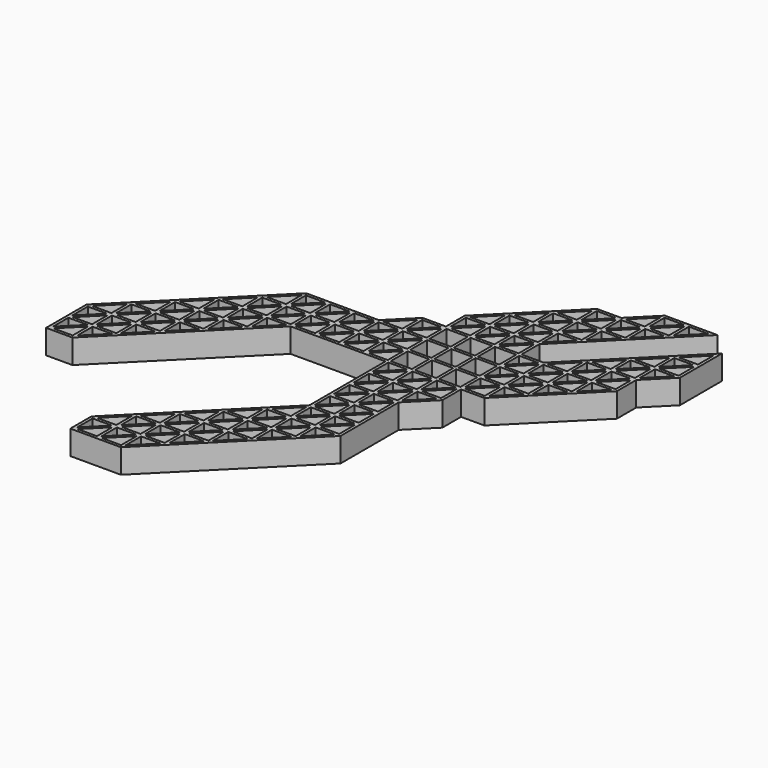
from build123d import *

# Parameters (mm, degrees)
F0_W     = 4.399732
F0_H     = 4.399386
F0_W_2   = 4.400076
F0_W_3   = 4.399731
F0_H_2   = 4.400076
F1_DEPTH = 5


with BuildPart() as f1:
    # F0 (on Top) → F1 (new body)
    with BuildSketch(Plane.XY):
        Polygon((-20.300139, -39.875775), (-20.300139, -45.300077), (-9.875624, -45.300077), (15.3001, -20.124353), (15.3001, -5.124407), (20.299967, -0.12454), (20.299967, 4.699971), (25.124479, 4.699971), (40.300124, 19.875617), (40.300124, 24.875484), (45.299991, 29.875696), (45.299991, 40.724301), (24.875743, 20.300053), (20.299967, 20.300053), (20.299967, 24.875484), (40.724215, 45.300077), (29.87561, 45.300077), (24.875743, 40.300038), (19.875531, 40.300038), (4.699886, 25.12422), (4.699886, 20.300053), (-0.124282, 20.300053), (-5.124493, 15.300186), (-20.124439, 15.300186), (-45.299991, -9.875539), (-45.299991, -20.300053), (-39.87586, -20.300053), (-14.875492, 4.699971), (4.699886, 4.699971), (4.699886, -14.87575), align=None)
        Polygon((-19.275567, -44.699597), (-15.299927, -40.724302), (-15.299927, -44.699597), align=None, mode=Mode.SUBTRACT)
        Polygon((-19.700003, -44.275162), (-19.700003, -40.30021), (-15.724708, -40.30021), align=None, mode=Mode.SUBTRACT)
        Polygon((-14.275356, -44.699597), (-10.30006, -40.724302), (-10.30006, -44.699597), align=None, mode=Mode.SUBTRACT)
        Polygon((-14.699792, -44.275162), (-14.699792, -40.30021), (-10.72484, -40.30021), align=None, mode=Mode.SUBTRACT)
        Polygon((-15.299927, -35.72409), (-15.299927, -39.69973), (-19.275567, -39.69973), align=None, mode=Mode.SUBTRACT)
        Polygon((-10.30006, -39.69973), (-14.275011, -39.69973), (-10.30006, -35.724435), align=None, mode=Mode.SUBTRACT)
        Polygon((-10.724496, -35.299999), (-14.699792, -39.275639), (-14.699792, -35.299999), align=None, mode=Mode.SUBTRACT)
        Polygon((-5.724284, -40.30021), (-9.699925, -44.275851), (-9.699925, -40.30021), align=None, mode=Mode.SUBTRACT)
        Polygon((-5.300193, -39.700075), (-9.275489, -39.700075), (-5.300193, -35.724435), align=None, mode=Mode.SUBTRACT)
        Polygon((-9.699925, -39.275639), (-9.699925, -35.299999), (-5.724629, -35.299999), align=None, mode=Mode.SUBTRACT)
        Polygon((-0.724073, -35.299999), (-4.700057, -39.275983), (-4.700057, -35.299999), align=None, mode=Mode.SUBTRACT)
        Polygon((-14.2757, -34.699863), (-10.30006, -30.723878), (-10.30006, -34.699863), align=None, mode=Mode.SUBTRACT)
        Polygon((-5.300193, -34.699863), (-9.275489, -34.699863), (-5.300193, -30.724223), align=None, mode=Mode.SUBTRACT)
        Polygon((-5.724629, -30.299787), (-9.699925, -34.275427), (-9.699925, -30.299787), align=None, mode=Mode.SUBTRACT)
        Polygon((-0.299982, -34.699863), (-4.275622, -34.699863), (-0.299982, -30.724223), align=None, mode=Mode.SUBTRACT)
        Polygon((-4.700057, -34.275427), (-4.700057, -30.299787), (-0.724417, -30.299787), align=None, mode=Mode.SUBTRACT)
        Polygon((-9.275833, -29.699652), (-5.300193, -25.724011), (-5.300193, -29.699652), align=None, mode=Mode.SUBTRACT)
        Polygon((-0.299982, -29.699652), (-4.275622, -29.699652), (-0.299982, -25.724356), align=None, mode=Mode.SUBTRACT)
        Polygon((-0.724417, -25.29992), (-4.700057, -29.275216), (-4.700057, -25.29992), align=None, mode=Mode.SUBTRACT)
        Polygon((-4.275966, -24.699784), (-0.299982, -20.724144), (-0.299982, -24.699784), align=None, mode=Mode.SUBTRACT)
        Polygon((-44.700028, -19.275482), (-44.700028, -15.299841), (-40.724387, -15.299841), align=None, mode=Mode.SUBTRACT)
        Polygon((-44.275592, -19.699917), (-40.300296, -15.724622), (-40.300296, -19.699917), align=None, mode=Mode.SUBTRACT)
        Polygon((-35.724348, -15.299841), (-39.699816, -19.275482), (-39.699816, -15.299841), align=None, mode=Mode.SUBTRACT)
        Polygon((-44.700028, -10.299974), (-40.724732, -10.299974), (-44.700028, -14.27527), align=None, mode=Mode.SUBTRACT)
        Polygon((-40.300296, -10.72441), (-40.300296, -14.699706), (-44.275592, -14.699706), align=None, mode=Mode.SUBTRACT)
        Polygon((-39.699816, -14.274926), (-39.699816, -10.299974), (-35.724865, -10.299974), align=None, mode=Mode.SUBTRACT)
        Polygon((-35.300085, -14.699706), (-39.275725, -14.699706), (-35.300085, -10.724066), align=None, mode=Mode.SUBTRACT)
        Polygon((-30.724309, -10.29963), (-34.699949, -14.275615), (-34.699949, -10.29963), align=None, mode=Mode.SUBTRACT)
        Polygon((-40.300296, -5.724199), (-40.300296, -9.699494), (-44.27542, -9.699494), align=None, mode=Mode.SUBTRACT)
        Polygon((-35.724348, -5.300107), (-39.700161, -9.275747), (-39.700161, -5.300107), align=None, mode=Mode.SUBTRACT)
        Polygon((-35.300085, -9.699494), (-39.275553, -9.699494), (-35.300085, -5.724199), align=None, mode=Mode.SUBTRACT)
        Polygon((-39.275897, -4.699972), (-35.300085, -0.723987), (-35.300085, -4.699972), align=None, mode=Mode.SUBTRACT)
        Polygon((-34.699949, -9.275058), (-34.699949, -5.300107), (-30.724998, -5.300107), align=None, mode=Mode.SUBTRACT)
        Polygon((-34.275513, -9.699494), (-30.300218, -5.724199), (-30.300218, -9.699494), align=None, mode=Mode.SUBTRACT)
        Polygon((-25.724097, -5.300107), (-29.700082, -9.275747), (-29.700082, -5.300107), align=None, mode=Mode.SUBTRACT)
        Polygon((-30.724653, -0.299896), (-34.699949, -4.275536), (-34.699949, -0.299896), align=None, mode=Mode.SUBTRACT)
        Polygon((-30.300218, -4.699627), (-34.275169, -4.699627), (-30.300218, -0.724331), align=None, mode=Mode.SUBTRACT)
        Polygon((-29.700082, -4.275536), (-29.700082, -0.299896), (-25.724442, -0.299896), align=None, mode=Mode.SUBTRACT)
        Polygon((-25.300006, -4.699972), (-29.275646, -4.699972), (-25.300006, -0.724331), align=None, mode=Mode.SUBTRACT)
        Polygon((-20.72423, -0.299896), (-24.69987, -4.27588), (-24.69987, -0.299896), align=None, mode=Mode.SUBTRACT)
        Polygon((4.275794, -30.299787), (0.300154, -34.275772), (0.300154, -30.299787), align=None, mode=Mode.SUBTRACT)
        Polygon((4.699886, -29.699652), (0.72459, -29.699652), (4.699886, -25.724356), align=None, mode=Mode.SUBTRACT)
        Polygon((0.300154, -29.275216), (0.300154, -25.29992), (4.27545, -25.29992), align=None, mode=Mode.SUBTRACT)
        Polygon((4.699886, -24.699784), (0.72459, -24.699784), (4.699886, -20.724489), align=None, mode=Mode.SUBTRACT)
        Polygon((9.275661, -25.29992), (5.300021, -29.27556), (5.300021, -25.29992), align=None, mode=Mode.SUBTRACT)
        Polygon((9.699753, -24.699784), (5.724457, -24.699784), (9.699753, -20.724489), align=None, mode=Mode.SUBTRACT)
        Polygon((4.27545, -20.300053), (0.300154, -24.275349), (0.300154, -20.300053), align=None, mode=Mode.SUBTRACT)
        Polygon((0.724245, -19.699917), (4.699886, -15.723933), (4.699886, -19.699917), align=None, mode=Mode.SUBTRACT)
        Polygon((5.300021, -24.275349), (5.300021, -20.300053), (9.275317, -20.300053), align=None, mode=Mode.SUBTRACT)
        Polygon((5.724457, -19.699917), (9.699753, -15.724277), (9.699753, -19.699917), align=None, mode=Mode.SUBTRACT)
        Polygon((5.300021, -19.275482), (5.300021, -15.299841), (9.275317, -15.299841), align=None, mode=Mode.SUBTRACT)
        Polygon((9.699753, -10.72441), (9.699753, -14.699706), (5.724457, -14.699706), align=None, mode=Mode.SUBTRACT)
        Polygon((5.300021, -14.27527), (5.300021, -10.299974), (9.275317, -10.299974), align=None, mode=Mode.SUBTRACT)
        Polygon((14.275873, -20.300053), (10.299888, -24.275693), (10.299888, -20.300053), align=None, mode=Mode.SUBTRACT)
        Polygon((10.724324, -19.699917), (14.699964, -15.724277), (14.699964, -19.699917), align=None, mode=Mode.SUBTRACT)
        Polygon((10.299888, -19.275482), (10.299888, -15.299841), (14.275528, -15.299841), align=None, mode=Mode.SUBTRACT)
        Polygon((14.699964, -10.72441), (14.699964, -14.699706), (10.724324, -14.699706), align=None, mode=Mode.SUBTRACT)
        Polygon((10.299888, -10.299974), (14.275528, -10.299974), (10.299888, -14.27527), align=None, mode=Mode.SUBTRACT)
        Polygon((9.699753, -9.699494), (5.724457, -9.699494), (9.699753, -5.724199), align=None, mode=Mode.SUBTRACT)
        Polygon((5.300021, -9.275058), (5.300021, -5.300107), (9.274972, -5.300107), align=None, mode=Mode.SUBTRACT)
        Polygon((9.699753, -4.699627), (5.724801, -4.699627), (9.699753, -0.724331), align=None, mode=Mode.SUBTRACT)
        Polygon((5.300021, -4.275536), (5.300021, -0.299896), (9.275317, -0.299896), align=None, mode=Mode.SUBTRACT)
        Polygon((14.699964, -5.724199), (14.699964, -9.699494), (10.724324, -9.699494), align=None, mode=Mode.SUBTRACT)
        Polygon((10.299888, -9.275058), (10.299888, -5.300107), (14.275184, -5.300107), align=None, mode=Mode.SUBTRACT)
        Polygon((14.699964, -0.724331), (14.699964, -4.699627), (10.724669, -4.699627), align=None, mode=Mode.SUBTRACT)
        Polygon((10.299888, -4.275536), (10.299888, -0.299896), (14.275528, -0.299896), align=None, mode=Mode.SUBTRACT)
        Polygon((19.27574, -0.299896), (15.3001, -4.27588), (15.3001, -0.299896), align=None, mode=Mode.SUBTRACT)
        Polygon((-34.275858, 0.30024), (-30.300218, 4.276225), (-30.300218, 0.30024), align=None, mode=Mode.SUBTRACT)
        Polygon((-25.724442, 4.700316), (-29.700082, 0.724676), (-29.700082, 4.700316), align=None, mode=Mode.SUBTRACT)
        Polygon((-25.300006, 0.30024), (-29.275646, 0.30024), (-25.300006, 4.27588), align=None, mode=Mode.SUBTRACT)
        Polygon((-24.69987, 0.724676), (-24.69987, 4.700316), (-20.724575, 4.700316), align=None, mode=Mode.SUBTRACT)
        Polygon((-29.275991, 5.300452), (-25.300006, 9.276092), (-25.300006, 5.300452), align=None, mode=Mode.SUBTRACT)
        Polygon((-20.724575, 9.700183), (-24.69987, 5.724887), (-24.69987, 9.700183), align=None, mode=Mode.SUBTRACT)
        Polygon((-20.300139, 0.30024), (-24.275435, 0.30024), (-20.300139, 4.27588), align=None, mode=Mode.SUBTRACT)
        Polygon((-19.700003, 0.724331), (-19.700003, 4.699971), (-15.724363, 4.699971), align=None, mode=Mode.SUBTRACT)
        Polygon((-20.300139, 9.275747), (-20.300139, 5.300452), (-24.275435, 5.300452), align=None, mode=Mode.SUBTRACT)
        Polygon((-15.724363, 9.699838), (-19.700003, 5.724543), (-19.700003, 9.699838), align=None, mode=Mode.SUBTRACT)
        Polygon((-19.275223, 5.300452), (-15.300272, 9.275058), (-15.300272, 5.300452), align=None, mode=Mode.SUBTRACT)
        Polygon((-14.2757, 5.300107), (-10.30006, 9.275403), (-10.30006, 5.300107), align=None, mode=Mode.SUBTRACT)
        Polygon((-14.699792, 5.724887), (-14.699792, 9.699838), (-10.724496, 9.699838), align=None, mode=Mode.SUBTRACT)
        Polygon((-9.275489, 5.300107), (-5.300193, 9.275058), (-5.300193, 5.300107), align=None, mode=Mode.SUBTRACT)
        Polygon((-9.699925, 5.724543), (-9.699925, 9.699838), (-5.724284, 9.699838), align=None, mode=Mode.SUBTRACT)
        Polygon((-4.275622, 5.300107), (-0.299982, 9.275403), (-0.299982, 5.299762), align=None, mode=Mode.SUBTRACT)
        Polygon((-4.699713, 5.724887), (-4.699713, 9.699838), (-0.724417, 9.699838), align=None, mode=Mode.SUBTRACT)
        Polygon((-24.275779, 10.300319), (-20.300139, 14.275959), (-20.300139, 10.300319), align=None, mode=Mode.SUBTRACT)
        Polygon((-15.724363, 14.70005), (-19.700003, 10.72441), (-19.700003, 14.70005), align=None, mode=Mode.SUBTRACT)
        Polygon((-15.300272, 14.27527), (-15.300272, 10.299974), (-19.275567, 10.299974), align=None, mode=Mode.SUBTRACT)
        Polygon((-10.30006, 14.275614), (-10.30006, 10.299974), (-14.2757, 10.299974), align=None, mode=Mode.SUBTRACT)
        Polygon((-10.724496, 14.70005), (-14.699792, 10.724754), (-14.699792, 14.70005), align=None, mode=Mode.SUBTRACT)
        Polygon((-5.300193, 14.27527), (-5.300193, 10.299974), (-9.275489, 10.299974), align=None, mode=Mode.SUBTRACT)
        Polygon((-5.724284, 14.70005), (-9.699925, 10.72441), (-9.699925, 14.70005), align=None, mode=Mode.SUBTRACT)
        Polygon((-0.299982, 14.275614), (-0.299982, 10.299974), (-4.275622, 10.299974), align=None, mode=Mode.SUBTRACT)
        Polygon((-0.724417, 14.70005), (-4.699713, 10.724754), (-4.699713, 14.70005), align=None, mode=Mode.SUBTRACT)
        Polygon((-4.275966, 15.300186), (-0.299982, 19.27617), (-0.299982, 15.300186), align=None, mode=Mode.SUBTRACT)
        Polygon((9.699753, 4.27588), (9.699753, 0.30024), (5.724457, 0.30024), align=None, mode=Mode.SUBTRACT)
        Polygon((5.300021, 4.699971), (9.274972, 4.699971), (5.300021, 0.724676), align=None, mode=Mode.SUBTRACT)
        Polygon((0.72459, 5.299762), (4.699886, 9.275403), (4.699886, 5.299762), align=None, mode=Mode.SUBTRACT)
        Polygon((0.300154, 5.724198), (0.300154, 9.699838), (4.27545, 9.699838), align=None, mode=Mode.SUBTRACT)
        with Locations((7.499887, 7.500145)):
            Rectangle(F0_W, F0_H, mode=Mode.SUBTRACT)
        Polygon((14.699964, 0.30024), (10.724324, 0.30024), (14.699964, 4.27588), align=None, mode=Mode.SUBTRACT)
        Polygon((10.299888, 4.699971), (14.275184, 4.699971), (10.299888, 0.724676), align=None, mode=Mode.SUBTRACT)
        Polygon((15.3001, 0.724676), (15.3001, 4.699971), (19.275051, 4.699971), align=None, mode=Mode.SUBTRACT)
        Polygon((19.699831, 4.27588), (19.699831, 0.30024), (15.724536, 0.30024), align=None, mode=Mode.SUBTRACT)
        with Locations((12.499926, 7.500145)):
            Rectangle(F0_W_2, F0_H, mode=Mode.SUBTRACT)
        with Locations((17.499965, 7.500145)):
            Rectangle(F0_W_3, F0_H, mode=Mode.SUBTRACT)
        Polygon((20.299967, 5.724887), (20.299967, 9.699838), (24.274918, 9.699838), align=None, mode=Mode.SUBTRACT)
        Polygon((0.72459, 10.299974), (4.699886, 14.275614), (4.699886, 10.299974), align=None, mode=Mode.SUBTRACT)
        Polygon((0.300154, 14.70005), (4.27545, 14.70005), (0.300154, 10.72441), align=None, mode=Mode.SUBTRACT)
        with Locations((7.499887, 12.500012)):
            Rectangle(F0_W, F0_H_2, mode=Mode.SUBTRACT)
        Polygon((4.699886, 19.275826), (4.699886, 15.300186), (0.72459, 15.300186), align=None, mode=Mode.SUBTRACT)
        Polygon((4.27545, 19.700262), (0.300154, 15.724621), (0.300154, 19.700262), align=None, mode=Mode.SUBTRACT)
        with Locations((7.499887, 17.500224)):
            Rectangle(F0_W, F0_H_2, mode=Mode.SUBTRACT)
        Polygon((9.699753, 24.276037), (9.699753, 20.300397), (5.724457, 20.300397), align=None, mode=Mode.SUBTRACT)
        with Locations((12.499926, 12.500012)):
            Rectangle(F0_W_2, F0_H_2, mode=Mode.SUBTRACT)
        with Locations((17.499965, 12.500012)):
            Rectangle(F0_W_3, F0_H_2, mode=Mode.SUBTRACT)
        Polygon((20.299967, 10.72441), (20.299967, 14.70005), (24.275263, 14.70005), align=None, mode=Mode.SUBTRACT)
        with Locations((12.499926, 17.500224)):
            Rectangle(F0_W_2, F0_H_2, mode=Mode.SUBTRACT)
        Polygon((14.699964, 20.300397), (10.724324, 20.300397), (14.699964, 24.276037), align=None, mode=Mode.SUBTRACT)
        with Locations((17.499965, 17.500224)):
            Rectangle(F0_W_3, F0_H_2, mode=Mode.SUBTRACT)
        Polygon((24.275263, 19.700262), (20.299967, 15.724621), (20.299967, 19.700262), align=None, mode=Mode.SUBTRACT)
        Polygon((19.699831, 20.300397), (15.724536, 20.300397), (19.699831, 24.276037), align=None, mode=Mode.SUBTRACT)
        Polygon((24.699698, 5.300452), (20.724403, 5.300452), (24.699698, 9.275747), align=None, mode=Mode.SUBTRACT)
        Polygon((29.275819, 9.699838), (25.300178, 5.724198), (25.300178, 9.699838), align=None, mode=Mode.SUBTRACT)
        Polygon((24.699698, 10.300319), (20.724747, 10.300319), (24.699698, 14.275614), align=None, mode=Mode.SUBTRACT)
        Polygon((25.299834, 10.72441), (25.299834, 14.70005), (29.275474, 14.70005), align=None, mode=Mode.SUBTRACT)
        Polygon((29.69991, 10.299974), (25.72427, 10.299974), (29.69991, 14.275614), align=None, mode=Mode.SUBTRACT)
        Polygon((34.275686, 14.699706), (30.300046, 10.724065), (30.300046, 14.699706), align=None, mode=Mode.SUBTRACT)
        Polygon((24.699698, 15.300186), (20.724403, 15.300186), (24.699698, 19.275826), align=None, mode=Mode.SUBTRACT)
        Polygon((29.69991, 19.275826), (29.69991, 15.300186), (25.72427, 15.300186), align=None, mode=Mode.SUBTRACT)
        Polygon((29.275474, 19.700262), (25.299834, 15.724621), (25.299834, 19.700262), align=None, mode=Mode.SUBTRACT)
        Polygon((25.72427, 20.300397), (29.69991, 24.276037), (29.69991, 20.300397), align=None, mode=Mode.SUBTRACT)
        Polygon((34.275341, 19.700262), (30.300046, 15.724621), (30.300046, 19.700262), align=None, mode=Mode.SUBTRACT)
        Polygon((30.724481, 15.300186), (34.699777, 19.275826), (34.699777, 15.300186), align=None, mode=Mode.SUBTRACT)
        Polygon((34.699777, 20.300397), (30.724481, 20.300397), (34.699777, 24.275693), align=None, mode=Mode.SUBTRACT)
        Polygon((39.275897, 19.699917), (35.300257, 15.723932), (35.300257, 19.699917), align=None, mode=Mode.SUBTRACT)
        Polygon((39.699989, 24.275693), (39.699989, 20.300397), (35.724348, 20.300397), align=None, mode=Mode.SUBTRACT)
        Polygon((5.300021, 20.724833), (5.300021, 24.699784), (9.274628, 24.699784), align=None, mode=Mode.SUBTRACT)
        Polygon((9.699753, 29.27556), (9.699753, 25.300609), (5.725146, 25.300609), align=None, mode=Mode.SUBTRACT)
        Polygon((10.299888, 24.700129), (14.275184, 24.700129), (10.299888, 20.724833), align=None, mode=Mode.SUBTRACT)
        Polygon((14.699964, 25.300609), (10.724669, 25.300609), (14.699964, 29.27556), align=None, mode=Mode.SUBTRACT)
        Polygon((14.275184, 29.699651), (10.300233, 25.725045), (10.300233, 29.699651), align=None, mode=Mode.SUBTRACT)
        Polygon((15.3001, 20.724833), (15.3001, 24.700129), (19.275051, 24.700129), align=None, mode=Mode.SUBTRACT)
        Polygon((19.699831, 29.27556), (19.699831, 25.300609), (15.72488, 25.300609), align=None, mode=Mode.SUBTRACT)
        Polygon((15.3001, 25.7247), (15.3001, 29.699996), (19.275396, 29.699996), align=None, mode=Mode.SUBTRACT)
        Polygon((24.275952, 29.699996), (20.299967, 25.724011), (20.299967, 29.699996), align=None, mode=Mode.SUBTRACT)
        Polygon((14.699964, 34.275772), (14.699964, 30.300131), (10.724669, 30.300131), align=None, mode=Mode.SUBTRACT)
        Polygon((19.699831, 34.275772), (19.699831, 30.300131), (15.724536, 30.300131), align=None, mode=Mode.SUBTRACT)
        Polygon((19.275396, 34.700207), (15.3001, 30.724567), (15.3001, 34.700207), align=None, mode=Mode.SUBTRACT)
        Polygon((20.299967, 34.699863), (24.275607, 34.699863), (20.299967, 30.724567), align=None, mode=Mode.SUBTRACT)
        Polygon((15.723847, 35.300343), (19.699831, 39.275639), (19.699831, 35.300343), align=None, mode=Mode.SUBTRACT)
        Polygon((24.275607, 39.699902), (20.299967, 35.724434), (20.299967, 39.699902), align=None, mode=Mode.SUBTRACT)
        Polygon((34.275341, 24.700129), (30.300046, 20.724833), (30.300046, 24.700129), align=None, mode=Mode.SUBTRACT)
        Polygon((30.724137, 25.300264), (34.699777, 29.275905), (34.699777, 25.300264), align=None, mode=Mode.SUBTRACT)
        Polygon((24.700043, 30.300131), (20.724403, 30.300131), (24.700043, 34.275427), align=None, mode=Mode.SUBTRACT)
        Polygon((29.275819, 34.699863), (25.300178, 30.724223), (25.300178, 34.699863), align=None, mode=Mode.SUBTRACT)
        Polygon((35.299913, 20.724833), (35.299913, 24.700129), (39.275553, 24.700129), align=None, mode=Mode.SUBTRACT)
        Polygon((39.699989, 29.27556), (39.699989, 25.300264), (35.724348, 25.300264), align=None, mode=Mode.SUBTRACT)
        Polygon((39.275553, 29.699996), (35.299913, 25.7247), (35.299913, 29.699996), align=None, mode=Mode.SUBTRACT)
        Polygon((44.276109, 29.699996), (40.300124, 25.724356), (40.300124, 29.699996), align=None, mode=Mode.SUBTRACT)
        Polygon((35.724004, 30.300131), (39.699989, 34.276116), (39.699989, 30.300131), align=None, mode=Mode.SUBTRACT)
        Polygon((40.300124, 34.700207), (44.275764, 34.700207), (40.300124, 30.724567), align=None, mode=Mode.SUBTRACT)
        Polygon((40.72456, 30.300131), (44.7002, 34.275772), (44.7002, 30.300131), align=None, mode=Mode.SUBTRACT)
        Polygon((24.700043, 35.299998), (20.724403, 35.299998), (24.700043, 39.275639), align=None, mode=Mode.SUBTRACT)
        Polygon((29.69991, 35.299998), (25.724614, 35.299998), (29.69991, 39.275639), align=None, mode=Mode.SUBTRACT)
        Polygon((29.275474, 39.699902), (25.300178, 35.724434), (25.300178, 39.699902), align=None, mode=Mode.SUBTRACT)
        Polygon((34.275686, 39.699902), (30.300046, 35.72409), (30.300046, 39.699902), align=None, mode=Mode.SUBTRACT)
        Polygon((25.723925, 40.300038), (29.69991, 44.275678), (29.69991, 40.300038), align=None, mode=Mode.SUBTRACT)
        Polygon((34.699777, 44.275678), (34.699777, 40.300038), (30.724481, 40.300038), align=None, mode=Mode.SUBTRACT)
        Polygon((34.275686, 44.699942), (30.300046, 40.724301), (30.300046, 44.699942), align=None, mode=Mode.SUBTRACT)
        Polygon((40.724215, 35.300343), (44.7002, 39.275983), (44.7002, 35.300343), align=None, mode=Mode.SUBTRACT)
        Polygon((39.275553, 44.699942), (35.299913, 40.724301), (35.299913, 44.699942), align=None, mode=Mode.SUBTRACT)
    extrude(amount=F1_DEPTH)


solid = f1.part
